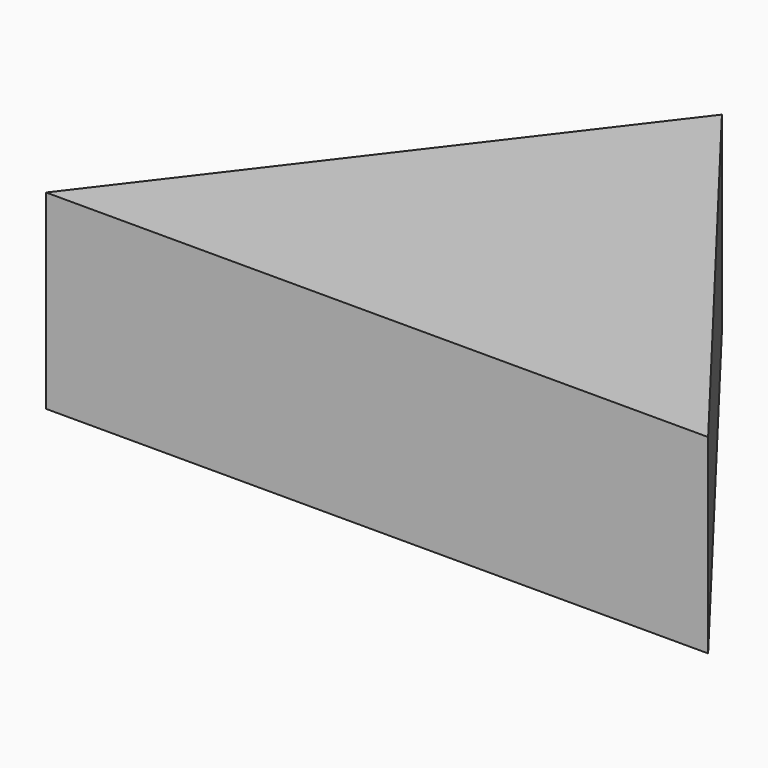
from build123d import *

# Parameters (mm, degrees)
F1_DEPTH = 43.942
F4_DEPTH = 254


with BuildPart() as f1:
    # F0 (on Top) → F1 (new body)
    with BuildSketch(Plane.XY):
        Polygon((0, 75.635768), (-76.069631, -24.151387), (76.648101, -24.151387), align=None)
    extrude(amount=F1_DEPTH)

    # F3 (on offset) → F4 (cut)
    with BuildSketch(Plane.XY.offset(25.4)):
        with BuildLine():
            add(Edge.make_bspline(
                [(-37.022483, 20.680526), (-37.022483, -10.470419), (18.511241, 5.105054), (74.044965, 20.680526), (18.511241, 36.255999), (-37.022483, 51.831471), (-37.022483, 20.680526)],
                knots=[0, 0, 0, 2.094395, 2.094395, 4.18879, 4.18879, 6.283185, 6.283185, 6.283185], degree=2, weights=[1, 0.5, 1, 0.5, 1, 0.5, 1]))
        make_face()
    extrude(amount=-F4_DEPTH, mode=Mode.SUBTRACT)


solid = f1.part
